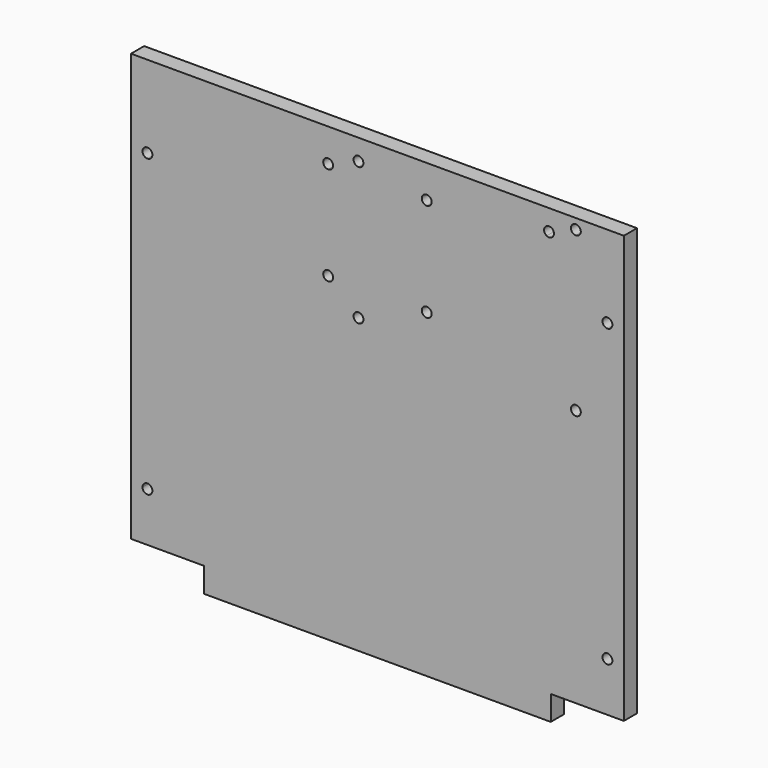
from build123d import *

# Parameters (mm, degrees)
F0_W     = 105.5
F0_H     = 7.5
F1_DEPTH = 5
F3_DEPTH = 25


with BuildPart() as f1:
    # F0 (on Front) → F1 (new body)
    with BuildSketch(Plane.XZ):
        with BuildLine():
            ThreePointArc((149.692112, 105), (147.131451, 106.06066), (148.192112, 103.5))
            ThreePointArc((148.192112, 103.5), (149.252772, 103.93934), (149.692112, 105))
        make_face()
        with BuildLine():
            ThreePointArc((9.692112, 105), (7.131451, 106.06066), (8.192112, 103.5))
            ThreePointArc((8.192112, 103.5), (9.252772, 103.93934), (9.692112, 105))
        make_face()
        Polygon((3.192112, 15), (3.192112, 0), (25.442112, 0), (130.942112, 0), (153.192112, 0), (153.192112, 15), (153.192112, 130), (3.192112, 130), align=None)
        with BuildLine():
            ThreePointArc((9.692112, 15), (8.192112, 13.5), (6.692112, 15))
            ThreePointArc((6.692112, 15), (7.131451, 16.06066), (8.192112, 16.5))
            ThreePointArc((8.192112, 16.5), (9.252772, 16.06066), (9.692112, 15))
        make_face(mode=Mode.SUBTRACT)
        with BuildLine():
            ThreePointArc((148.192112, 16.5), (149.252772, 16.06066), (149.692112, 15))
            ThreePointArc((149.692112, 15), (147.131451, 13.93934), (148.192112, 16.5))
        make_face(mode=Mode.SUBTRACT)
        with BuildLine():
            ThreePointArc((9.692112, 105), (9.252772, 103.93934), (8.192112, 103.5))
            ThreePointArc((8.192112, 103.5), (7.131451, 106.06066), (9.692112, 105))
        make_face(mode=Mode.SUBTRACT)
        with BuildLine():
            ThreePointArc((149.692112, 105), (149.252772, 103.93934), (148.192112, 103.5))
            ThreePointArc((148.192112, 103.5), (147.131451, 106.06066), (149.692112, 105))
        make_face(mode=Mode.SUBTRACT)
        with Locations((78.192112, -3.75)):
            Rectangle(F0_W, F0_H)
    extrude(amount=F1_DEPTH)

    # F2 (on face) → F3 (cut)
    with BuildSketch(Plane.XZ.offset(5)):
        with BuildLine():
            ThreePointArc((140.082112, 78.43), (139.642772, 79.49066), (138.582112, 79.93))
            ThreePointArc((138.582112, 79.93), (137.521451, 77.36934), (140.082112, 78.43))
        make_face()
        with BuildLine():
            ThreePointArc((140.082112, 126.82), (139.642772, 127.88066), (138.582112, 128.32))
            Line((138.582112, 128.32), (138.582112, 126.82))
            Line((138.582112, 126.82), (138.582112, 125.32))
            ThreePointArc((138.582112, 125.32), (139.642772, 125.75934), (140.082112, 126.82))
        make_face()
        with BuildLine():
            Line((138.582112, 126.82), (138.582112, 128.32))
            ThreePointArc((138.582112, 128.32), (137.082112, 126.82), (138.582112, 125.32))
            Line((138.582112, 125.32), (138.582112, 126.82))
        make_face()
        with BuildLine():
            ThreePointArc((131.922112, 123.65), (131.182046, 124.943252), (129.692112, 124.960382))
            Line((129.692112, 124.960382), (129.692112, 122.339618))
            ThreePointArc((129.692112, 122.339618), (131.182046, 122.356748), (131.922112, 123.65))
        make_face()
        with BuildLine():
            Line((129.692112, 122.339618), (129.692112, 124.960382))
            ThreePointArc((129.692112, 124.960382), (128.922112, 123.65), (129.692112, 122.339618))
        make_face()
        with BuildLine():
            ThreePointArc((73.922112, 123.65), (73.482772, 124.71066), (72.422112, 125.15))
            Line((72.422112, 125.15), (72.422112, 123.65))
            Line((72.422112, 123.65), (72.422112, 122.15))
            ThreePointArc((72.422112, 122.15), (73.482772, 122.58934), (73.922112, 123.65))
        make_face()
        with BuildLine():
            ThreePointArc((73.922112, 81.74), (73.482772, 82.80066), (72.422112, 83.24))
            Line((72.422112, 83.24), (72.422112, 81.74))
            Line((72.422112, 81.74), (72.422112, 80.24))
            ThreePointArc((72.422112, 80.24), (73.482772, 80.67934), (73.922112, 81.74))
        make_face()
        with BuildLine():
            Line((72.422112, 81.74), (72.422112, 83.24))
            ThreePointArc((72.422112, 83.24), (70.922112, 81.74), (72.422112, 80.24))
            Line((72.422112, 80.24), (72.422112, 81.74))
        make_face()
        with BuildLine():
            ThreePointArc((64.692112, 90), (64.252772, 91.06066), (63.192112, 91.5))
            ThreePointArc((63.192112, 91.5), (62.131451, 88.93934), (64.692112, 90))
        make_face()
        with BuildLine():
            ThreePointArc((64.692112, 120), (62.131451, 121.06066), (63.192112, 118.5))
            ThreePointArc((63.192112, 118.5), (64.252772, 118.93934), (64.692112, 120))
        make_face()
        with BuildLine():
            Line((72.422112, 123.65), (72.422112, 125.15))
            ThreePointArc((72.422112, 125.15), (70.922112, 123.65), (72.422112, 122.15))
            Line((72.422112, 122.15), (72.422112, 123.65))
        make_face()
        with BuildLine():
            ThreePointArc((93.192112, 91.5), (92.131451, 88.93934), (94.692112, 90))
            ThreePointArc((94.692112, 90), (94.252772, 91.06066), (93.192112, 91.5))
        make_face()
        with BuildLine():
            ThreePointArc((93.192112, 121.5), (91.692112, 120), (93.192112, 118.5))
            Line((93.192112, 118.5), (93.192112, 120))
            Line((93.192112, 120), (93.192112, 121.5))
        make_face()
        with BuildLine():
            Line((93.192112, 120), (93.192112, 118.5))
            ThreePointArc((93.192112, 118.5), (94.252772, 118.93934), (94.692112, 120))
            ThreePointArc((94.692112, 120), (94.252772, 121.06066), (93.192112, 121.5))
            Line((93.192112, 121.5), (93.192112, 120))
        make_face()
    extrude(amount=-F3_DEPTH, mode=Mode.SUBTRACT)


solid = f1.part
